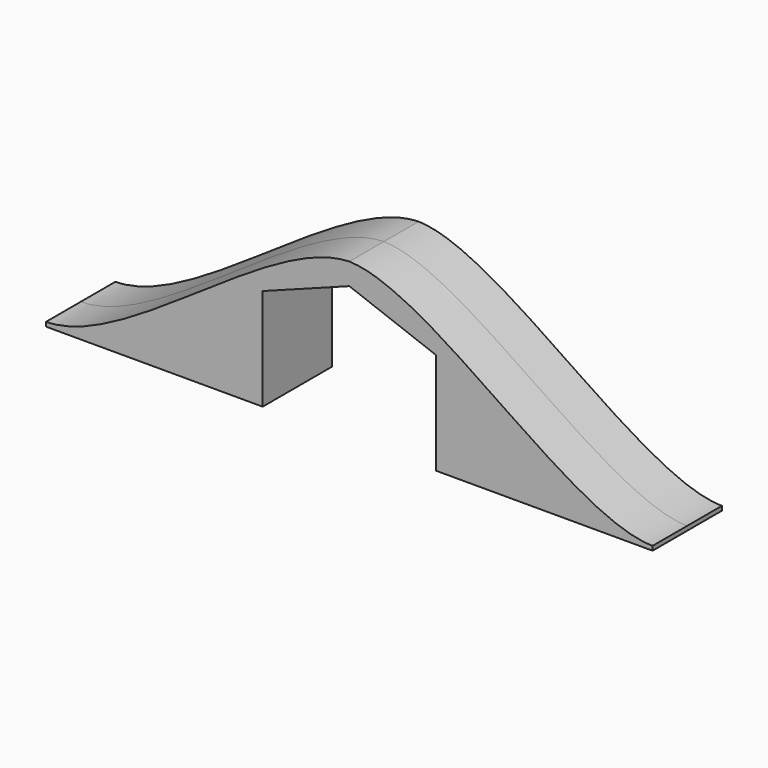
from build123d import *

# Parameters (mm, degrees)
F1_DEPTH = 12.7
F2_W     = 63.5
F2_H     = 25.4
F3_DEPTH = 1.27


with BuildPart() as f1:
    # F0 (on Front) → F1 (new body, symmetric)
    with BuildSketch(Plane.XZ):
        with BuildLine():
            Line((25.4, 28.575), (25.4, 0))
            Line((25.4, 0), (88.9, 0))
            add(Edge.make_bspline(
                [(0, 44.45), (23.8007288426, 43.8667871058), (65.3088388513, 0), (88.9, 0)],
                knots=[0, 0, 0, 0, 99.3932215999, 99.3932215999, 99.3932215999, 99.3932215999], degree=3))
            Line((0, 44.45), (0, 38.1))
            Line((0, 38.1), (25.4, 28.575))
        make_face()
    extrude(amount=F1_DEPTH, both=True)

    # F2 (on face) → F3 (join)
    with BuildSketch(Plane(origin=(0, 0, 0), x_dir=(1, 0, 0), z_dir=(0, 0, -1))):
        with Locations((57.15, 0)):
            Rectangle(F2_W, F2_H)
    extrude(amount=F3_DEPTH)

    # F4: F1 across face


with BuildPart() as f1_1:
    add(f1.part)
    add(f1.part.mirror(Plane(origin=(0, 0, 41.275), x_dir=(0, -1, 0), z_dir=(-1, 0, 0))))


solid = f1_1.part
